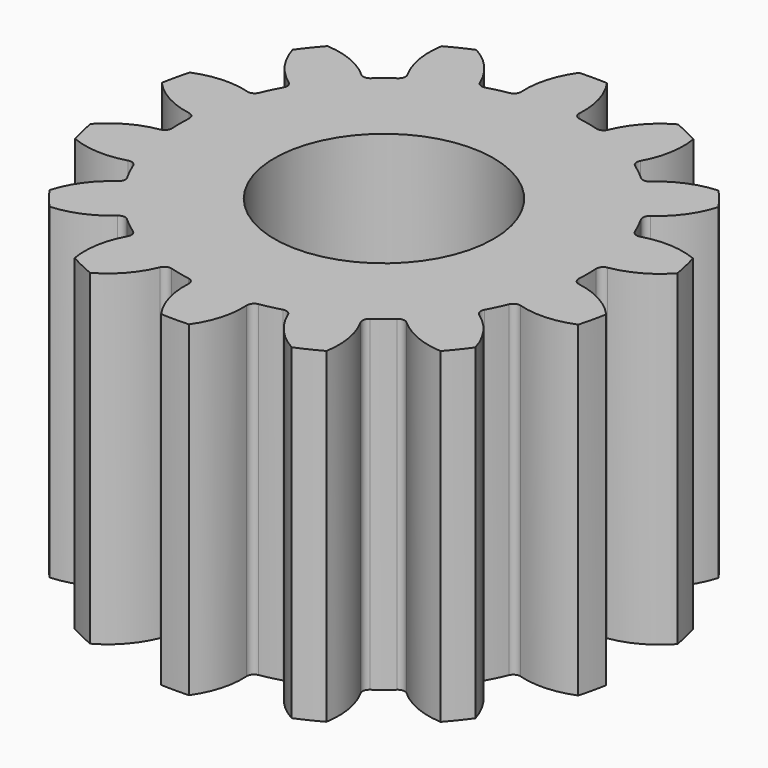
from build123d import *

# Parameters (mm, degrees)
F0_R     = 1.9939
F1_DEPTH = 5.9436


with BuildPart() as f1:
    # F0 (on Top) → F1 (new body)
    with BuildSketch(Plane.XY):
        with BuildLine():
            ThreePointArc((1.165337, 3.64131), (1.103355, 3.575271), (1.013135, 3.567322))
            ThreePointArc((1.013135, 3.567322), (0.825197, 3.615423), (0.635, 3.653629))
            ThreePointArc((0.635, 3.653629), (0.557163, 3.699936), (0.529973, 3.786328))
            ThreePointArc((0.529973, 3.786328), (0.474446, 4.2945), (0.254, 4.755722))
            ThreePointArc((0.254, 4.755722), (0, 4.7625), (-0.254, 4.755722))
            ThreePointArc((-0.254, 4.755722), (-0.474446, 4.2945), (-0.529973, 3.786328))
            ThreePointArc((-0.529973, 3.786328), (-0.557163, 3.699936), (-0.635, 3.653629))
            ThreePointArc((-0.635, 3.653629), (-0.825197, 3.615423), (-1.013135, 3.567322))
            ThreePointArc((-1.013135, 3.567322), (-1.103355, 3.575271), (-1.165337, 3.64131))
            ThreePointArc((-1.165337, 3.64131), (-1.435853, 4.075065), (-1.834584, 4.394964))
            ThreePointArc((-1.834584, 4.394964), (-2.066371, 4.290864), (-2.292276, 4.174551))
            ThreePointArc((-2.292276, 4.174551), (-2.290774, 3.663356), (-2.120315, 3.181417))
            ThreePointArc((-2.120315, 3.181417), (-2.107329, 3.091783), (-2.157365, 3.01629))
            ThreePointArc((-2.157365, 3.01629), (-2.31215, 2.899344), (-2.460606, 2.774463))
            ThreePointArc((-2.460606, 2.774463), (-2.545341, 2.74248), (-2.629838, 2.775086))
            ThreePointArc((-2.629838, 2.775086), (-3.061763, 3.048513), (-3.559807, 3.163729))
            ThreePointArc((-3.559807, 3.163729), (-3.723472, 2.96937), (-3.876539, 2.766559))
            ThreePointArc((-3.876539, 2.766559), (-3.653387, 2.30664), (-3.290703, 1.946387))
            ThreePointArc((-3.290703, 1.946387), (-3.240112, 1.871264), (-3.252438, 1.781537))
            ThreePointArc((-3.252438, 1.781537), (-3.341153, 1.609014), (-3.420724, 1.432088))
            ThreePointArc((-3.420724, 1.432088), (-3.48319, 1.366507), (-3.573466, 1.359222))
            ThreePointArc((-3.573466, 1.359222), (-4.081254, 1.418166), (-4.579966, 1.305879))
            ThreePointArc((-4.579966, 1.305879), (-4.643094, 1.059756), (-4.693006, 0.810616))
            ThreePointArc((-4.693006, 0.810616), (-4.292402, 0.493066), (-3.809327, 0.325852))
            ThreePointArc((-3.809327, 0.325852), (-3.731151, 0.280119), (-3.703326, 0.19393))
            ThreePointArc((-3.703326, 0.19393), (-3.7084, 0), (-3.703326, -0.19393))
            ThreePointArc((-3.703326, -0.19393), (-3.731151, -0.280119), (-3.809327, -0.325852))
            ThreePointArc((-3.809327, -0.325852), (-4.292402, -0.493066), (-4.693006, -0.810616))
            ThreePointArc((-4.693006, -0.810616), (-4.643094, -1.059756), (-4.579966, -1.305879))
            ThreePointArc((-4.579966, -1.305879), (-4.081254, -1.418166), (-3.573466, -1.359222))
            ThreePointArc((-3.573466, -1.359222), (-3.48319, -1.366507), (-3.420724, -1.432088))
            ThreePointArc((-3.420724, -1.432088), (-3.341153, -1.609014), (-3.252438, -1.781537))
            ThreePointArc((-3.252438, -1.781537), (-3.240112, -1.871264), (-3.290703, -1.946387))
            ThreePointArc((-3.290703, -1.946387), (-3.653387, -2.30664), (-3.876539, -2.766559))
            ThreePointArc((-3.876539, -2.766559), (-3.723472, -2.96937), (-3.559807, -3.163729))
            ThreePointArc((-3.559807, -3.163729), (-3.061763, -3.048513), (-2.629838, -2.775086))
            ThreePointArc((-2.629838, -2.775086), (-2.545341, -2.74248), (-2.460606, -2.774463))
            ThreePointArc((-2.460606, -2.774463), (-2.31215, -2.899344), (-2.157365, -3.01629))
            ThreePointArc((-2.157365, -3.01629), (-2.107329, -3.091783), (-2.120315, -3.181417))
            ThreePointArc((-2.120315, -3.181417), (-2.290774, -3.663356), (-2.292276, -4.174551))
            ThreePointArc((-2.292276, -4.174551), (-2.066371, -4.290864), (-1.834584, -4.394964))
            ThreePointArc((-1.834584, -4.394964), (-1.435853, -4.075065), (-1.165337, -3.64131))
            ThreePointArc((-1.165337, -3.64131), (-1.103355, -3.575271), (-1.013135, -3.567322))
            ThreePointArc((-1.013135, -3.567322), (-0.825197, -3.615423), (-0.635, -3.653629))
            ThreePointArc((-0.635, -3.653629), (-0.557163, -3.699936), (-0.529973, -3.786328))
            ThreePointArc((-0.529973, -3.786328), (-0.474446, -4.2945), (-0.254, -4.755722))
            ThreePointArc((-0.254, -4.755722), (0, -4.7625), (0.254, -4.755722))
            ThreePointArc((0.254, -4.755722), (0.474446, -4.2945), (0.529973, -3.786328))
            ThreePointArc((0.529973, -3.786328), (0.557163, -3.699936), (0.635, -3.653629))
            ThreePointArc((0.635, -3.653629), (0.825197, -3.615423), (1.013135, -3.567322))
            ThreePointArc((1.013135, -3.567322), (1.103355, -3.575271), (1.165337, -3.64131))
            ThreePointArc((1.165337, -3.64131), (1.435853, -4.075065), (1.834584, -4.394964))
            ThreePointArc((1.834584, -4.394964), (2.066371, -4.290864), (2.292276, -4.174551))
            ThreePointArc((2.292276, -4.174551), (2.290774, -3.663356), (2.120315, -3.181417))
            ThreePointArc((2.120315, -3.181417), (2.107329, -3.091783), (2.157365, -3.01629))
            ThreePointArc((2.157365, -3.01629), (2.31215, -2.899344), (2.460606, -2.774463))
            ThreePointArc((2.460606, -2.774463), (2.545341, -2.74248), (2.629838, -2.775086))
            ThreePointArc((2.629838, -2.775086), (3.061763, -3.048513), (3.559807, -3.163729))
            ThreePointArc((3.559807, -3.163729), (3.723472, -2.96937), (3.876539, -2.766559))
            ThreePointArc((3.876539, -2.766559), (3.653387, -2.30664), (3.290703, -1.946387))
            ThreePointArc((3.290703, -1.946387), (3.240112, -1.871264), (3.252438, -1.781537))
            ThreePointArc((3.252438, -1.781537), (3.341153, -1.609014), (3.420724, -1.432088))
            ThreePointArc((3.420724, -1.432088), (3.48319, -1.366507), (3.573466, -1.359222))
            ThreePointArc((3.573466, -1.359222), (4.081254, -1.418166), (4.579966, -1.305879))
            ThreePointArc((4.579966, -1.305879), (4.643094, -1.059756), (4.693006, -0.810616))
            ThreePointArc((4.693006, -0.810616), (4.292402, -0.493066), (3.809327, -0.325852))
            ThreePointArc((3.809327, -0.325852), (3.731151, -0.280119), (3.703326, -0.19393))
            ThreePointArc((3.703326, -0.19393), (3.7084, 0), (3.703326, 0.19393))
            ThreePointArc((3.703326, 0.19393), (3.731151, 0.280119), (3.809327, 0.325852))
            ThreePointArc((3.809327, 0.325852), (4.292402, 0.493066), (4.693006, 0.810616))
            ThreePointArc((4.693006, 0.810616), (4.643094, 1.059756), (4.579966, 1.305879))
            ThreePointArc((4.579966, 1.305879), (4.081254, 1.418166), (3.573466, 1.359222))
            ThreePointArc((3.573466, 1.359222), (3.48319, 1.366507), (3.420724, 1.432088))
            ThreePointArc((3.420724, 1.432088), (3.341153, 1.609014), (3.252438, 1.781537))
            ThreePointArc((3.252438, 1.781537), (3.240112, 1.871264), (3.290703, 1.946387))
            ThreePointArc((3.290703, 1.946387), (3.653387, 2.30664), (3.876539, 2.766559))
            ThreePointArc((3.876539, 2.766559), (3.723472, 2.96937), (3.559807, 3.163729))
            ThreePointArc((3.559807, 3.163729), (3.061763, 3.048513), (2.629838, 2.775086))
            ThreePointArc((2.629838, 2.775086), (2.545341, 2.74248), (2.460606, 2.774463))
            ThreePointArc((2.460606, 2.774463), (2.31215, 2.899344), (2.157365, 3.01629))
            ThreePointArc((2.157365, 3.01629), (2.107329, 3.091783), (2.120315, 3.181417))
            ThreePointArc((2.120315, 3.181417), (2.290774, 3.663356), (2.292276, 4.174551))
            ThreePointArc((2.292276, 4.174551), (2.066371, 4.290864), (1.834584, 4.394964))
            ThreePointArc((1.834584, 4.394964), (1.435853, 4.075065), (1.165337, 3.64131))
        make_face()
        Circle(F0_R, mode=Mode.SUBTRACT)
    extrude(amount=F1_DEPTH)


solid = f1.part
